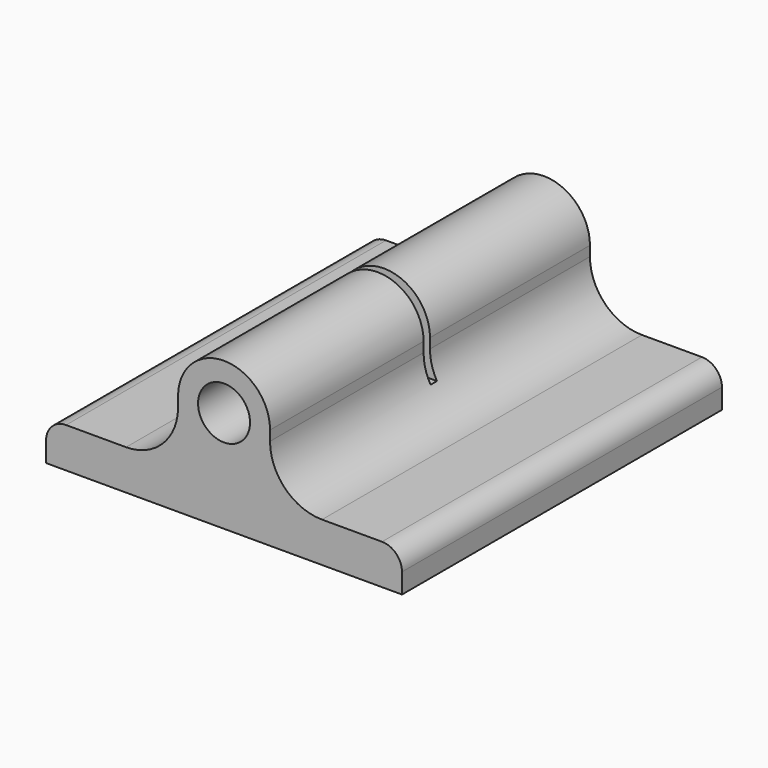
from build123d import *

# Parameters (mm, degrees)
F0_R     = 2.6
F1_DEPTH = 40
F2_W     = 0.8
F2_H     = 8.2
F3_DEPTH = 35.601
F4_R     = 2


with BuildPart() as f1:
    # F0 (on Front) → F1 (new body)
    with BuildSketch(Plane.XZ):
        with BuildLine():
            Line((-17.8, 4), (-17.8, 0))
            Line((-17.8, 0), (17.8, 0))
            Line((17.8, 0), (17.8, 4))
            Line((17.8, 4), (9.8, 4))
            ThreePointArc((9.8, 4), (6.123045, 5.523045), (4.6, 9.2))
            Line((4.6, 9.2), (4.6, 10.2))
            ThreePointArc((4.6, 10.2), (0, 14.8), (-4.6, 10.2))
            Line((-4.6, 10.2), (-4.6, 9.2))
            ThreePointArc((-4.6, 9.2), (-6.123045, 5.523045), (-9.8, 4))
            Line((-9.8, 4), (-17.8, 4))
        make_face()
        with Locations((0, 10.2)):
            Circle(F0_R, mode=Mode.SUBTRACT)
    extrude(amount=F1_DEPTH)

    # F2 (on face) → F3 (cut, through all)
    with BuildSketch(Plane.YZ.offset(17.8)):
        with Locations((-20.4, 10.7)):
            Rectangle(F2_W, F2_H)
    extrude(amount=-F3_DEPTH, mode=Mode.SUBTRACT)

    # F4
    f4_edges = [f1.edges().sort_by_distance(p)[0] for p in [
        (-17.8, -20, 4),
        (17.8, -20, 4),
    ]]
    fillet(f4_edges, radius=F4_R)


solid = f1.part
